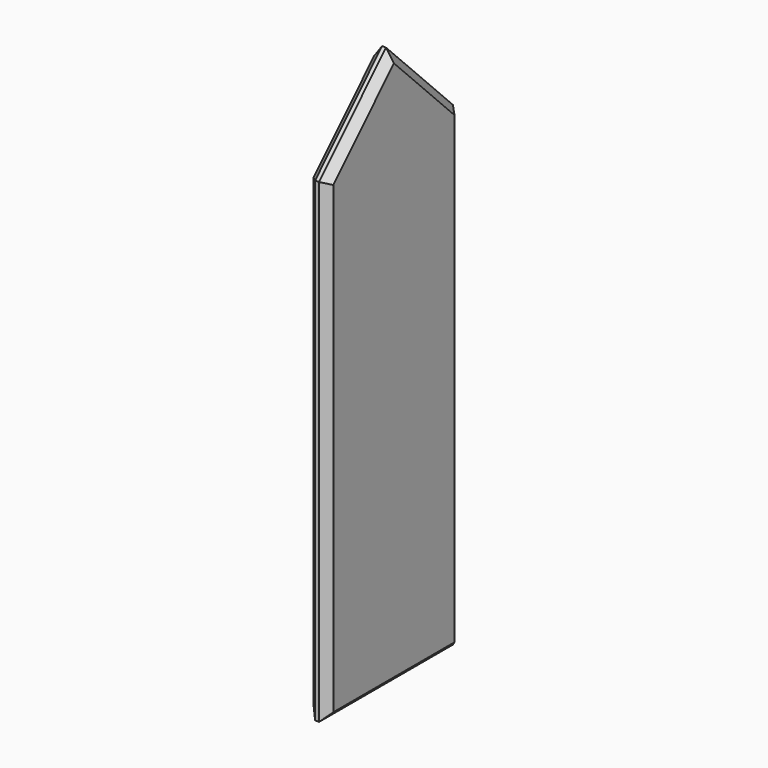
from build123d import *

# Parameters (mm, degrees)
F1_DEPTH = 12.7
F2_SIZE  = 5.08


with BuildPart() as f1:
    # F0 (on Right) → F1 (new body)
    with BuildSketch(Plane.YZ):
        Polygon((-107.267823, 0), (-107.267823, -304.8), (0, -304.8), (0, 0), (-53.633912, 54.128029), align=None)
    extrude(amount=F1_DEPTH)

    # F2
    f2_edges = [f1.edges().sort_by_distance(p)[0] for p in [
        (12.7, -80.450868, 27.064014),
        (12.7, -107.267823, -152.4),
        (12.7, -53.633912, -304.8),
        (12.7, 0, -152.4),
        (12.7, -26.816956, 27.064014),
        (0, -80.450868, 27.064014),
        (0, -107.267823, -152.4),
        (0, -53.633912, -304.8),
        (0, 0, -152.4),
        (0, -26.816956, 27.064014),
    ]]
    chamfer(f2_edges, length=F2_SIZE)


solid = f1.part
